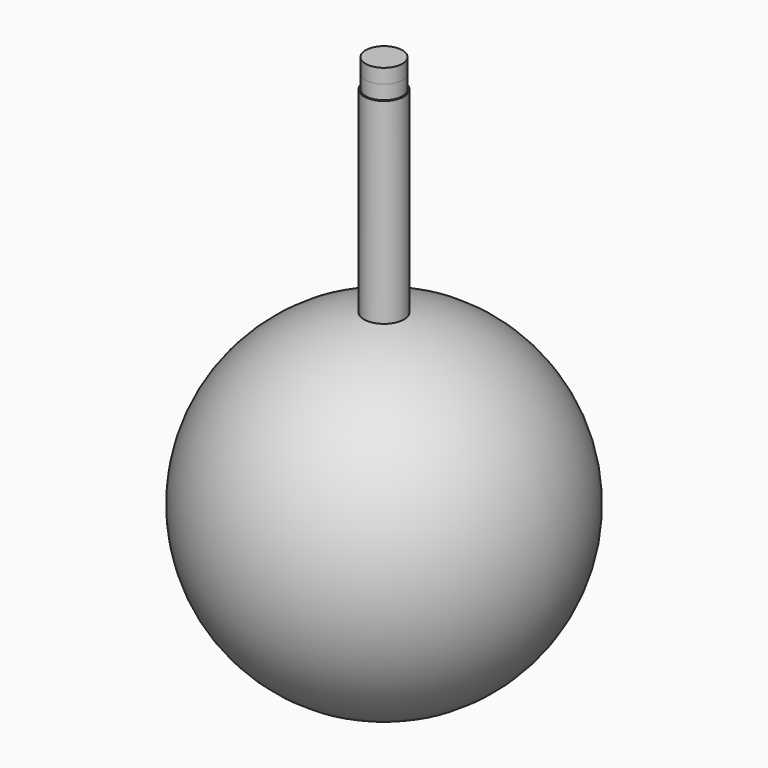
from build123d import *

# Parameters (mm, degrees)
TUBE_R            = 710
TUBE_R_2          = 649
TUBE_DEPTH        = 7000
CYLINDER_R        = 590
CYLINDER_DEPTH    = 1000
TUBE001_R         = 655
TUBE001_R_2       = 649
TUBE001_DEPTH     = 500
CYLINDER001_R     = 655
CYLINDER001_DEPTH = 13
TUBE002_R         = 655
TUBE002_R_2       = 649
TUBE002_DEPTH     = 500


with BuildPart() as tube:
    # Tube → Tube (new body)
    with BuildSketch(Plane.XY.offset(6000)):
        Circle(TUBE_R)
        Circle(TUBE_R_2, mode=Mode.SUBTRACT)
    extrude(amount=TUBE_DEPTH)


with BuildPart() as cylinder:
    # Cylinder → Cylinder (new body)
    with BuildSketch(Plane.XY.offset(5950)):
        Circle(CYLINDER_R)
    extrude(amount=CYLINDER_DEPTH)


with BuildPart() as sphere:
    # Sphere → Sphere (revolve)
    with BuildSketch(Plane.XZ):
        with BuildLine():
            ThreePointArc((0, -6000), (6000, 0), (0, 6000))
            Line((0, 6000), (0, -6000))
        make_face()
    revolve(axis=Axis((0, 0, 0), (0, 0, 1)))


with BuildPart() as fusion:
    # Sphere001 → Sphere001 (revolve)
    with BuildSketch(Plane.XZ):
        with BuildLine():
            ThreePointArc((0, -6060), (6060, 0), (0, 6060))
            Line((0, 6060), (0, -6060))
        make_face()
    revolve(axis=Axis((0, 0, 0), (0, 0, 1)))

    # Cut: cut Sphere
    add(sphere.part, mode=Mode.SUBTRACT)

    # Cut001: cut Cylinder
    add(cylinder.part, mode=Mode.SUBTRACT)

    # Fusion: union Tube
    add(tube.part)


with BuildPart() as tube001:
    # Tube001 → Tube001 (new body)
    with BuildSketch(Plane.XY.offset(13000)):
        Circle(TUBE001_R)
        Circle(TUBE001_R_2, mode=Mode.SUBTRACT)
    extrude(amount=TUBE001_DEPTH)


with BuildPart() as cylinder001:
    # Cylinder001 → Cylinder001 (new body)
    with BuildSketch(Plane.XY.offset(14000)):
        Circle(CYLINDER001_R)
    extrude(amount=CYLINDER001_DEPTH)


with BuildPart() as fusion001:
    # Tube002 → Tube002 (new body)
    with BuildSketch(Plane.XY.offset(13500)):
        Circle(TUBE002_R)
        Circle(TUBE002_R_2, mode=Mode.SUBTRACT)
    extrude(amount=TUBE002_DEPTH)

    # Fusion001: union Cylinder001
    add(cylinder001.part)


solid = Compound([fusion.part, tube001.part, fusion001.part])
